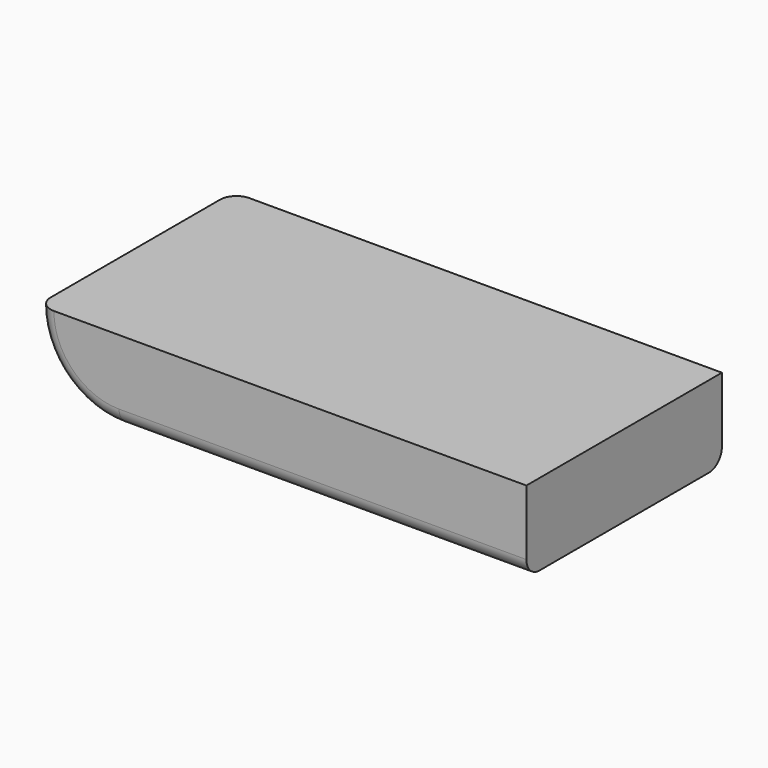
from build123d import *

# Parameters (mm, degrees)
F0_W     = 127
F0_H     = 25.4
F1_DEPTH = 76.2
F2_R     = 5.08


with BuildPart() as f1:
    # F0 (on Front) → F1 (new body)
    with BuildSketch(Plane.XZ):
        with BuildLine():
            Line((-53.346408, -20.287499), (-53.346408, 5.112501))
            Line((-53.346408, 5.112501), (-78.746408, 5.112501))
            ThreePointArc((-78.746408, 5.112501), (-71.30692, -12.848011), (-53.346408, -20.287499))
        make_face()
        with Locations((10.153592, -7.587499)):
            Rectangle(F0_W, F0_H)
    extrude(amount=F1_DEPTH)

    # F2
    f2_edges = [f1.edges().sort_by_distance(p)[0] for p in [
        (-71.30692, -76.2, -12.848011),
        (-71.30692, 0, -12.848011),
    ]]
    fillet(f2_edges, radius=F2_R)


solid = f1.part
